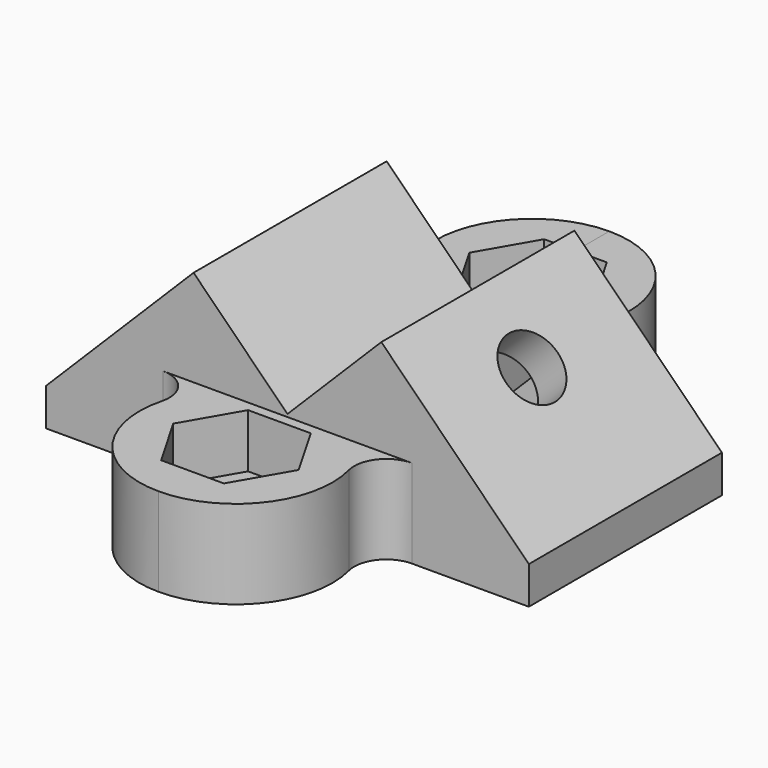
from build123d import *

# Parameters (mm, degrees)
PAD_DEPTH       = 15
PAD001_DEPTH    = 11
SKETCH002_R     = 4.02
HOLE_DEPTH      = 25
POCKET_DEPTH    = 21
POCKET001_DEPTH = 6.7


with BuildPart() as body:
    # Sketch → Pad (new body)
    with BuildSketch(Plane.XZ):
        Polygon((30, 4.667262), (11.667262, 23), (0, 11.332738), (0, 0), (30, 0), align=None)
    extrude(amount=PAD_DEPTH)

    # Sketch001 → Pad001 (join)
    with BuildSketch(Plane.XY):
        with BuildLine():
            ThreePointArc((0, -27.02), (4.02, -23), (0, -18.98))
            Line((0, -18.98), (0, -15))
            Line((0, -15), (15.491933, -15))
            ThreePointArc((15.491933, -15), (12.329656, -16.55051), (11.61895, -20))
            ThreePointArc((0, -35), (9.486833, -30.348469), (11.61895, -20))
            Line((0, -35), (0, -27.02))
        make_face()
    extrude(amount=PAD001_DEPTH)

    # Sketch002 (on DatumPlane) → Hole (cut)
    with BuildSketch(Plane(origin=(17.333631, 0, 17.333631), x_dir=(-0.707107, 0, 0.707107), z_dir=(0.707107, 0, 0.707107))):
        with Locations((-1.486544, 0)):
            Circle(SKETCH002_R)
    extrude(amount=-HOLE_DEPTH, mode=Mode.SUBTRACT)

    # Sketch003 (on DatumPlane) → Pocket (cut)
    with BuildSketch(Plane(origin=(8.131728, 0, 19.464466), x_dir=(0, 1, 0), z_dir=(0.707107, 0, 0.707107))):
        Polygon((-7.794229, -9.5), (-3.897114, -16.25), (3.897114, -16.25), (7.794229, -9.5), (3.897114, -2.75), (-3.897114, -2.75), align=None)
    extrude(amount=-POCKET_DEPTH, mode=Mode.SUBTRACT)

    # Sketch004 (on Face13 of Pocket) → Pocket001 (cut)
    with BuildSketch(Plane(origin=(0, 0, 11), x_dir=(-1, 0, 0), z_dir=(0, 0, 1))):
        Polygon((-3.897114, 29.75), (-7.794229, 23), (-3.897114, 16.25), (3.897114, 16.25), (7.794229, 23), (3.897114, 29.75), align=None)
    extrude(amount=-POCKET001_DEPTH, mode=Mode.SUBTRACT)


with BuildPart() as part_mirroring:
    # Part__Mirroring: instance of Body
    add(body.part.mirror(Plane(origin=(0, 0, 0), x_dir=(1, 0, 0), z_dir=(0, 1, 0))))


with BuildPart() as part_mirroring001:
    # Part__Mirroring001: instance of Part__Mirroring
    add(part_mirroring.part.mirror(Plane(origin=(0, 0, 0), x_dir=(0, -1, 0), z_dir=(1, 0, 0))))


with BuildPart() as fusion:
    # Part__Mirroring002: instance of Body
    add(body.part.mirror(Plane(origin=(0, 0, 0), x_dir=(0, -1, 0), z_dir=(1, 0, 0))))

    # Fusion: union Part__Mirroring001, Part__Mirroring, Body
    add(part_mirroring001.part)
    add(part_mirroring.part)
    add(body.part)


solid = fusion.part
